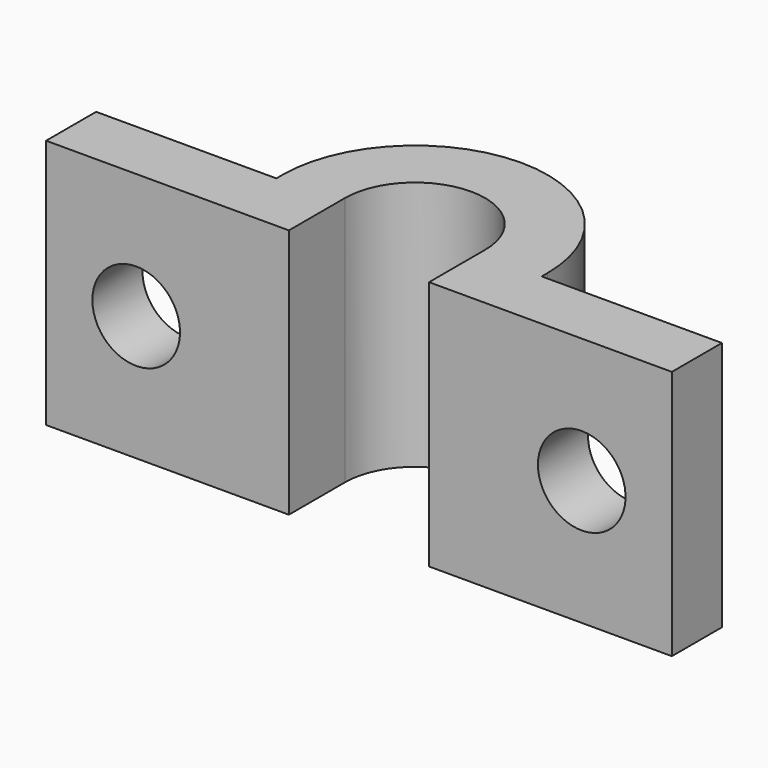
from build123d import *

# Parameters (mm, degrees)
F0_W     = 9.144
F0_H     = 3.175
F0_W_2   = 3.175
F1_DEPTH = 12.7
F2_R     = 2.2225
F3_DEPTH = 25.4


with BuildPart() as f1:
    # F0 (on Top) → F1 (new body)
    with BuildSketch(Plane.XY):
        with Locations((-11.303, -1.9685)):
            Rectangle(F0_W, F0_H)
        with Locations((-5.1435, -1.9685)):
            Rectangle(F0_W_2, F0_H)
        with BuildLine():
            Line((-6.731, 0), (-6.731, -0.381))
            Line((-6.731, -0.381), (-3.556, -0.381))
            Line((-3.556, -0.381), (-3.556, 0))
            ThreePointArc((-3.556, 0), (0, 3.556), (3.556, 0))
            Line((3.556, 0), (3.556, -0.381))
            Line((3.556, -0.381), (6.731, -0.381))
            Line((6.731, -0.381), (6.731, 0))
            ThreePointArc((6.731, 0), (0, 6.731), (-6.731, 0))
        make_face()
        with Locations((5.1435, -1.9685)):
            Rectangle(F0_W_2, F0_H)
        with Locations((11.303, -1.9685)):
            Rectangle(F0_W, F0_H)
    extrude(amount=F1_DEPTH)

    # F2 (on face) → F3 (cut)
    with BuildSketch(Plane(origin=(0, -0.381, 0), x_dir=(-1, 0, 0), z_dir=(0, 1, 0))):
        with Locations((11.303, 6.35)):
            Circle(F2_R)
        with Locations((-11.303, 6.35)):
            Circle(F2_R)
    extrude(amount=-F3_DEPTH, mode=Mode.SUBTRACT)


solid = f1.part
